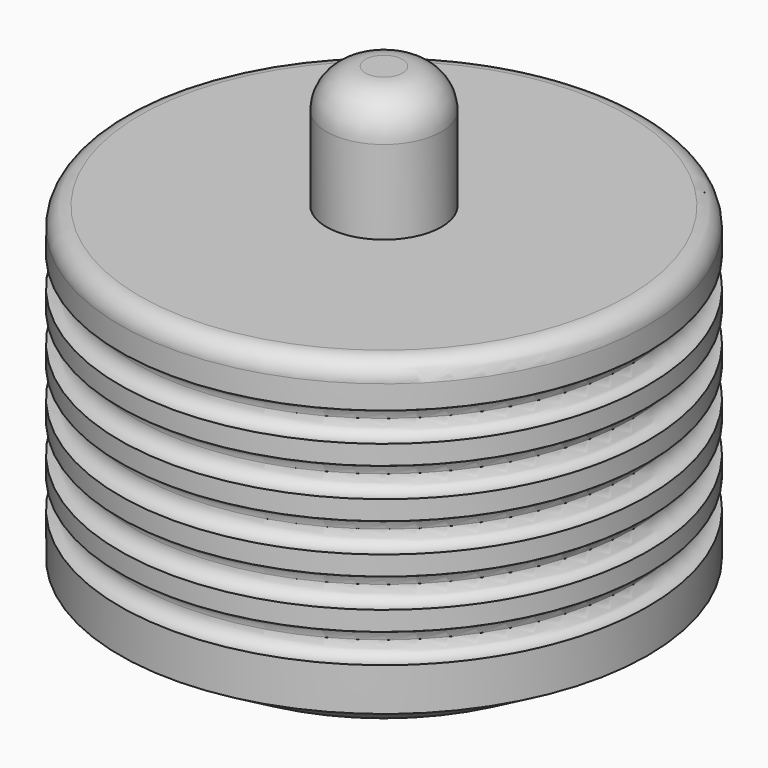
from build123d import *

# Parameters (mm, degrees)
F0_R     = 34.4
F1_DEPTH = 45.5
F2_R     = 7.5
F3_DEPTH = 16
F5_D     = 4.318
F5_DEPTH = 19.05
F5_TIP   = 1.2972580765
F6_SIZE2 = 8.7988181024
F6_SIZE  = 5.08
F9_R     = 2.54
F10_R    = 5.08


with BuildPart() as f1:
    # F0 (on Top) → F1 (new body)
    with BuildSketch(Plane.XY):
        Circle(F0_R)
    extrude(amount=F1_DEPTH)

    # F2 (on face) → F3 (join)
    with BuildSketch(Plane.XY.offset(45.5)):
        Circle(F2_R)
    extrude(amount=F3_DEPTH)

    # F5
    with Locations(Plane(origin=(0, 0, 0), x_dir=(1, 0, 0), z_dir=(0, 0, -1))):
        with Locations((-8, 13.8564064606), (16, 0), (-8, -13.8564064606)):
            Hole(F5_D / 2, depth=F5_DEPTH)
            with Locations((0, 0, -(F5_DEPTH + F5_TIP / 2))):  # 118° drill point
                Cone(0, F5_D / 2, F5_TIP, mode=Mode.SUBTRACT)

    # F6
    f6_edges = [f1.edges().sort_by_distance(p)[0] for p in [
        (-34.4, 0, 0),
    ]]
    f6_side = f1.faces().sort_by_distance((-34.4, 0, 22.75))[0]
    chamfer(f6_edges, length=F6_SIZE, length2=F6_SIZE2, reference=f6_side)

    # F7 (on Right) → F8 (revolve, cut)
    with BuildSketch(Plane.YZ):
        with BuildLine():
            ThreePointArc((-34.399982, 14.495), (-36.304982, 12.59), (-34.399982, 10.685))
            Line((-34.399982, 10.685), (-34.399982, 14.495))
        make_face()
        with BuildLine():
            ThreePointArc((-34.399982, 39.895), (-36.304982, 37.99), (-34.399982, 36.085))
            Line((-34.399982, 36.085), (-34.399982, 37.99))
            Line((-34.399982, 37.99), (-34.399982, 39.895))
        make_face()
        with BuildLine():
            Line((-34.399982, 37.99), (-34.399982, 36.085))
            ThreePointArc((-34.399982, 36.085), (-33.0529435818, 36.6429615818), (-32.494982, 37.99))
            ThreePointArc((-32.494982, 37.99), (-33.0529435818, 39.3370384182), (-34.399982, 39.895))
            Line((-34.399982, 39.895), (-34.399982, 37.99))
        make_face()
        with BuildLine():
            ThreePointArc((-34.399982, 33.545), (-36.304982, 31.64), (-34.399982, 29.735))
            Line((-34.399982, 29.735), (-34.399982, 31.64))
            Line((-34.399982, 31.64), (-34.399982, 33.545))
        make_face()
        with BuildLine():
            Line((-34.399982, 31.64), (-34.399982, 29.735))
            ThreePointArc((-34.399982, 29.735), (-33.0529435818, 30.2929615818), (-32.494982, 31.64))
            ThreePointArc((-32.494982, 31.64), (-33.0529435818, 32.9870384182), (-34.399982, 33.545))
            Line((-34.399982, 33.545), (-34.399982, 31.64))
        make_face()
        with BuildLine():
            ThreePointArc((-36.304982, 25.29), (-35.7470204182, 23.9429615818), (-34.399982, 23.385))
            Line((-34.399982, 23.385), (-34.399982, 25.29))
            Line((-34.399982, 25.29), (-36.304982, 25.29))
        make_face()
        with BuildLine():
            Line((-34.399982, 25.29), (-34.399982, 23.385))
            ThreePointArc((-34.399982, 23.385), (-33.0529435818, 23.9429615818), (-32.494982, 25.29))
            ThreePointArc((-32.494982, 25.29), (-33.0529435818, 26.6370384182), (-34.399982, 27.195))
            Line((-34.399982, 27.195), (-34.399982, 25.29))
        make_face()
        with BuildLine():
            ThreePointArc((-34.399982, 20.845), (-36.304982, 18.94), (-34.399982, 17.035))
            Line((-34.399982, 17.035), (-34.399982, 20.845))
        make_face()
        with BuildLine():
            Line((-34.399982, 20.845), (-34.399982, 17.035))
            ThreePointArc((-34.399982, 17.035), (-33.0529435818, 17.5929615818), (-32.494982, 18.94))
            ThreePointArc((-32.494982, 18.94), (-33.0529435818, 20.2870384182), (-34.399982, 20.845))
        make_face()
        with BuildLine():
            Line((-34.399982, 14.495), (-34.399982, 10.685))
            ThreePointArc((-34.399982, 10.685), (-33.0529435818, 11.2429615818), (-32.494982, 12.59))
            ThreePointArc((-32.494982, 12.59), (-33.0529435818, 13.9370384182), (-34.399982, 14.495))
        make_face()
        with BuildLine():
            Line((-36.304982, 25.29), (-34.399982, 25.29))
            Line((-34.399982, 25.29), (-34.399982, 27.195))
            ThreePointArc((-34.399982, 27.195), (-35.7470204182, 26.6370384182), (-36.304982, 25.29))
        make_face()
    revolve(axis=Axis((0, 0, 9.5272567123), (0, 0, 1)), mode=Mode.SUBTRACT)

    # F9
    f9_edges = [f1.edges().sort_by_distance(p)[0] for p in [
        (-34.4, 0, 45.5),
    ]]
    fillet(f9_edges, radius=F9_R)

    # F10
    f10_edges = [f1.edges().sort_by_distance(p)[0] for p in [
        (-7.5, 0, 61.5),
    ]]
    fillet(f10_edges, radius=F10_R)


solid = f1.part
